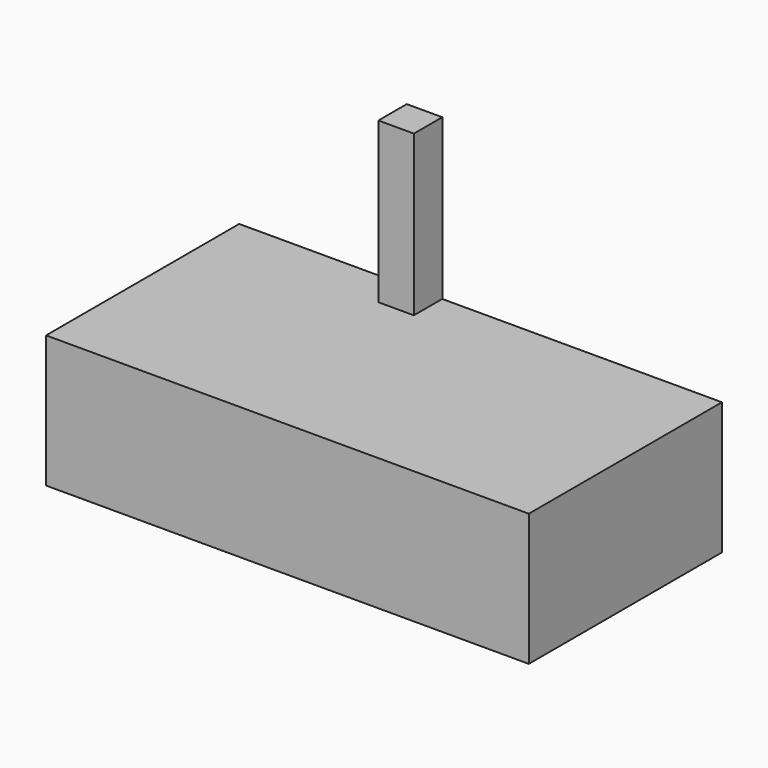
from build123d import *

# Parameters (mm, degrees)
F0_W     = 63.5
F0_H     = 457.2
F1_DEPTH = 63.5
F2_W     = 863.6
F2_H     = 236.5375
F3_DEPTH = 431.8
F4_W     = 368.3
F4_H     = 236.5502
F5_DEPTH = 19.05


with BuildPart() as f1:
    # F0 (on Front) → F1 (new body)
    with BuildSketch(Plane.XZ):
        with Locations((13.651035, 162.892898)):
            Rectangle(F0_W, F0_H)
    extrude(amount=F1_DEPTH)


with BuildPart() as f3:
    # F2 (on Front) → F3 (new body)
    with BuildSketch(Plane.XZ):
        with Locations((113.889453, -12.981334)):
            Rectangle(F2_W, F2_H)
    extrude(amount=F3_DEPTH)


with BuildPart() as f5:
    # F4 (on face) → F5 (new body)
    with BuildSketch(Plane.XZ):
        with Locations((-48.380244, -71.531262)):
            Rectangle(F4_W, F4_H)
    extrude(amount=F5_DEPTH)


solid = Compound([f1.part, f3.part, f5.part])
